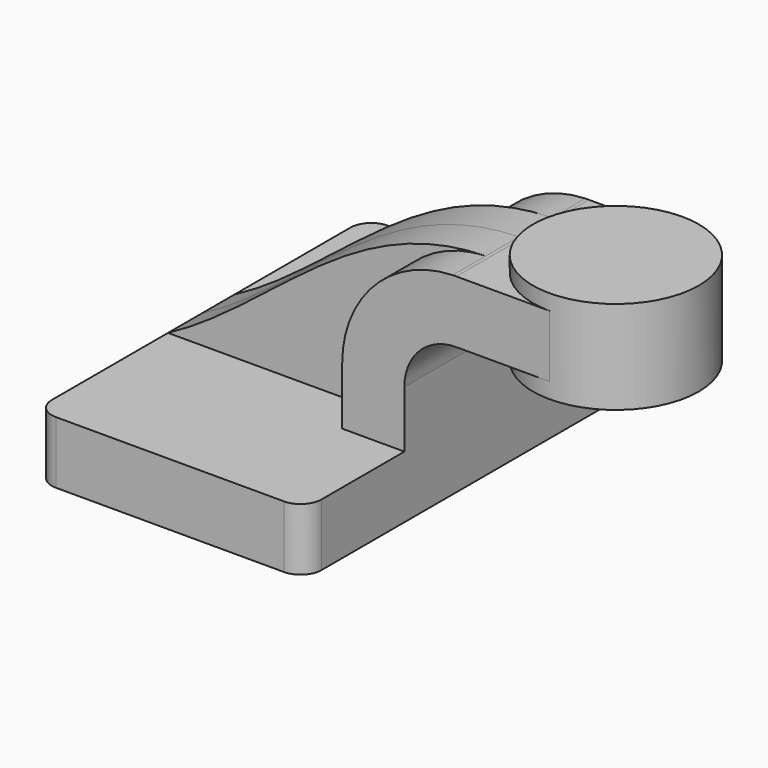
from build123d import *

# Parameters (mm, degrees)
F1_DEPTH = 63.5
F2_DEPTH = 25.4
F3_DEPTH = 12.7
F0_W     = 25.4
F0_H     = 19.05
F4_DEPTH = 25.4
F6_R     = 6.35


with BuildPart() as f1:
    # F0 (on Front) → F1 (new body, symmetric)
    with BuildSketch(Plane.XZ):
        Polygon((41.275, -9.525), (41.275, 9.525), (22.225, 9.525), (-41.275, 9.525), (-41.275, -9.525), align=None)
    extrude(amount=F1_DEPTH, both=True)

    # F0 (on Front) → F2 (join, symmetric)
    with BuildSketch(Plane.XZ):
        with BuildLine():
            Line((22.225, 9.525), (41.275, 9.525))
            Line((41.275, 9.525), (41.275, 27.0002))
            ThreePointArc((41.275, 27.0002), (45.9246798487, 38.2255201513), (57.15, 42.8752))
            Line((57.15, 42.8752), (60.325, 42.8752))
            Line((60.325, 42.8752), (60.325, 61.9252))
            Line((60.325, 61.9252), (57.15, 61.9252))
            add(Edge.make_bspline(
                [(56.0630860739, 61.9082827763), (56.4239855427, 61.9164147912), (56.7862841158, 61.9220646594), (57.15, 61.9252)],
                knots=[110.5496251445, 110.5496251445, 110.5496251445, 110.5496251445, 111.5045361635, 111.5045361635, 111.5045361635, 111.5045361635], degree=3))
            ThreePointArc((56.0630860739, 61.9082827763), (32.0729577714, 51.3085849333), (22.225, 27.0002))
            Line((22.225, 27.0002), (22.225, 9.525))
        make_face()
    extrude(amount=F2_DEPTH, both=True)

    # F0 (on Front) → F3 (join, symmetric)
    with BuildSketch(Plane.XZ):
        with BuildLine():
            Line((-41.275, 9.525), (22.225, 9.525))
            Line((22.225, 9.525), (22.225, 27.0002))
            ThreePointArc((22.225, 27.0002), (32.0729577714, 51.3085849333), (56.0630860739, 61.9082827763))
            add(Edge.make_bspline(
                [(-41.275, 9.525), (-8.7476331645, 26.7582086028), (14.2819146452, 60.9668430208), (56.0630860739, 61.9082827763)],
                knots=[0, 0, 0, 0, 110.5496251445, 110.5496251445, 110.5496251445, 110.5496251445], degree=3))
        make_face()
    extrude(amount=F3_DEPTH, both=True)

    # F0 (on Front) → F4 (join, symmetric)
    with BuildSketch(Plane.XZ):
        with Locations((73.025, 52.4002)):
            Rectangle(F0_W, F0_H)
    extrude(amount=F4_DEPTH, both=True)

    # F0 (on Front) → F5 (revolve)
    with BuildSketch(Plane.XZ):
        Polygon((85.725, 61.9252), (85.725, 42.8752), (85.725, 38.1), (111.125, 38.1), (111.125, 66.675), (85.725, 66.675), align=None)
    revolve(axis=Axis((85.725, 0, 52.3875), (0, 0, -1)))

    # F6
    f6_edges = [f1.edges().sort_by_distance(p)[0] for p in [
        (41.275, -63.5, 0),
        (-41.275, -63.5, 0),
        (-41.275, 63.5, 0),
        (41.275, 63.5, 0),
    ]]
    fillet(f6_edges, radius=F6_R)


solid = f1.part
